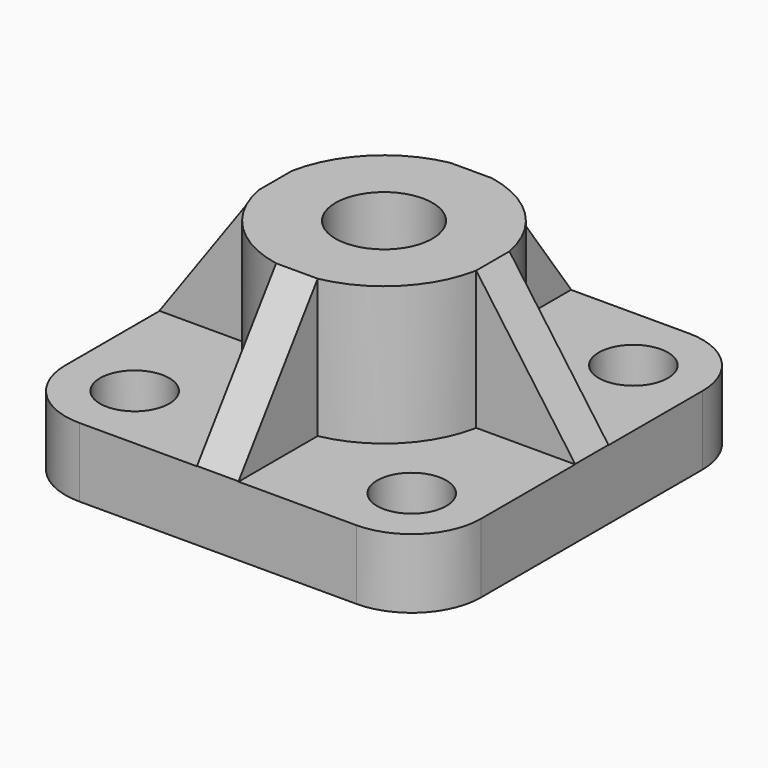
from build123d import *

# Parameters (mm, degrees)
F0_W     = 60
F0_H     = 60
F1_DEPTH = 10
F2_R     = 10
F4_D     = 10
F5_DEPTH = 20
F7_D     = 14
F7_DEPTH = 31
F7_TIP   = 4.2060243332
F8_SIZE2 = 19.9516800852
F8_SIZE  = 14.284


with BuildPart() as f1:
    # F0 (on Top) → F1 (new body)
    with BuildSketch(Plane.XY):
        with Locations((16.0370518267, -6.3885685802)):
            Rectangle(F0_W, F0_H)
    extrude(amount=F1_DEPTH)

    # F2
    f2_edges = [f1.edges().sort_by_distance(p)[0] for p in [
        (-13.962948, 23.611431, 5),
        (46.037052, 23.611431, 5),
        (46.037052, -36.388569, 5),
        (-13.962948, -36.388569, 5),
    ]]
    fillet(f2_edges, radius=F2_R)

    # F4 (through all)
    with Locations(Plane.XY.offset(10)):
        with Locations((-3.9629481733, 13.6114314198), (36.0370518267, 13.6114314198), (36.0370518267, -26.3885685802), (-3.9629481733, -26.3885685802)):
            Hole(F4_D / 2)

    # F3 (on face) → F5 (join)
    with BuildSketch(Plane.XY.offset(10)):
        with BuildLine():
            ThreePointArc((31.7535637154, -9.3888022257), (31.9662305079, -7.8954975618), (32.0373300699, -6.3888022257))
            ThreePointArc((32.0373300699, -6.3888022257), (31.9662305079, -4.8821068895), (31.7535637154, -3.3888022257))
            ThreePointArc((31.7535637154, -3.3888022257), (27.3510385689, 4.9249062733), (19.0373300699, 9.3274314198))
            ThreePointArc((19.0373300699, 9.3274314198), (16.0373300699, 9.6111977743), (13.0373300699, 9.3274314198))
            ThreePointArc((13.0373300699, 9.3274314198), (4.723621571, 4.9249062733), (0.3210964244, -3.3888022257))
            ThreePointArc((0.3210964244, -3.3888022257), (0.0373300704, -6.3886832938), (0.3210518267, -9.3885685802))
            ThreePointArc((0.3210518267, -9.3885685802), (4.7235374737, -17.7024266268), (13.0373300699, -22.1050358712))
            ThreePointArc((13.0373300699, -22.1050358712), (16.0373300699, -22.3888022257), (19.0373300699, -22.1050358712))
            ThreePointArc((19.0373300699, -22.1050358712), (27.3510385689, -17.7025107246), (31.7535637154, -9.3888022257))
        make_face()
        with BuildLine():
            ThreePointArc((31.7535637154, -3.3888022257), (31.9662305079, -4.8821068895), (32.0373300699, -6.3888022257))
            ThreePointArc((32.0373300699, -6.3888022257), (31.9662305079, -7.8954975618), (31.7535637154, -9.3888022257))
            Line((31.7535637154, -9.3888022257), (46.0370518267, -9.3888022257))
            Line((46.0370518267, -9.3888022257), (46.0370518267, -6.3885685802))
            Line((46.0370518267, -6.3885685802), (46.0370518267, -3.3888022257))
            Line((46.0370518267, -3.3888022257), (31.7535637154, -3.3888022257))
        make_face()
        with BuildLine():
            ThreePointArc((13.0373300699, 9.3274314198), (16.0373300699, 9.6111977743), (19.0373300699, 9.3274314198))
            Line((19.0373300699, 9.3274314198), (19.0373300699, 23.6114314198))
            Line((19.0373300699, 23.6114314198), (16.0370518267, 23.6114314198))
            Line((16.0370518267, 23.6114314198), (13.0373300699, 23.6114314198))
            Line((13.0373300699, 23.6114314198), (13.0373300699, 9.3274314198))
        make_face()
        with BuildLine():
            Line((19.0373300699, -36.3885685802), (19.0373300699, -22.1050358712))
            ThreePointArc((19.0373300699, -22.1050358712), (16.0373300699, -22.3888022257), (13.0373300699, -22.1050358712))
            Line((13.0373300699, -22.1050358712), (13.0373300699, -36.3885685802))
            Line((13.0373300699, -36.3885685802), (16.0370518267, -36.3885685802))
            Line((16.0370518267, -36.3885685802), (19.0373300699, -36.3885685802))
        make_face()
        with BuildLine():
            ThreePointArc((0.3210518267, -9.3885685802), (0.0373300704, -6.3886832938), (0.3210964244, -3.3888022257))
            Line((0.3210964244, -3.3888022257), (-13.9629481733, -3.3888022257))
            Line((-13.9629481733, -3.3888022257), (-13.9629481733, -6.3885685802))
            Line((-13.9629481733, -6.3885685802), (-13.9629481733, -9.3885685802))
            Line((-13.9629481733, -9.3885685802), (0.3210518267, -9.3885685802))
        make_face()
    extrude(amount=F5_DEPTH)

    # F7
    with Locations(Plane.XY.offset(30)):
        with Locations((16.0373300699, -6.3888022257)):
            Hole(F7_D / 2, depth=F7_DEPTH)
            with Locations((0, 0, -(F7_DEPTH + F7_TIP / 2))):  # 118° drill point
                Cone(0, F7_D / 2, F7_TIP, mode=Mode.SUBTRACT)

    # F8
    f8_edges = [f1.edges().sort_by_distance(p)[0] for p in [
        (-13.962948, -6.388685, 30),
        (16.03733, 23.611431, 30),
        (46.037052, -6.388802, 30),
        (16.03733, -36.388569, 30),
    ]]
    f8_side = f1.faces().sort_by_distance((26.751039, 4.324906, 30))[0]
    chamfer(f8_edges, length=F8_SIZE, length2=F8_SIZE2, reference=f8_side)


solid = f1.part
